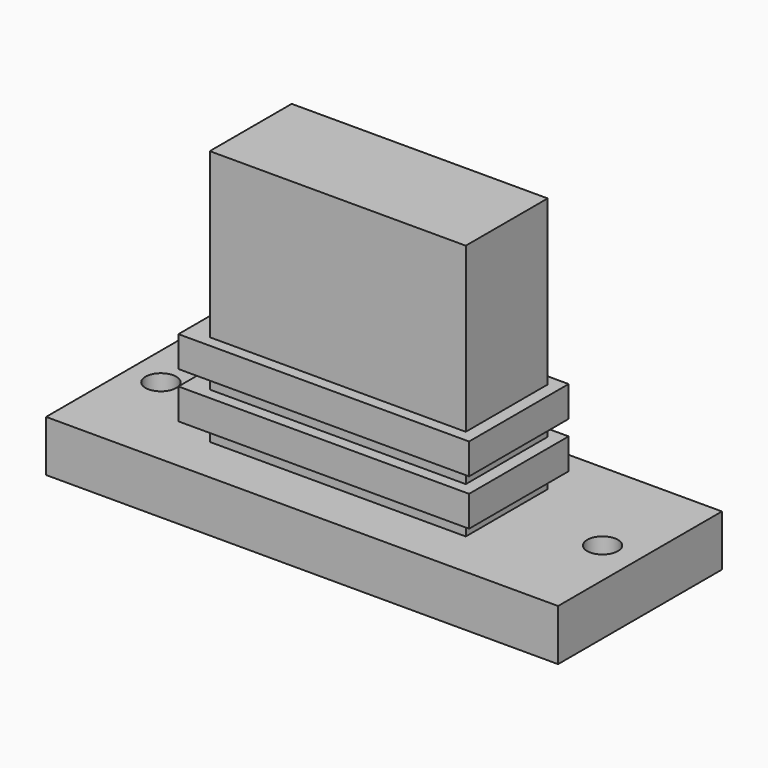
from build123d import *

# Parameters (mm, degrees)
SKETCH_W     = 50
SKETCH_H     = 20
PAD_DEPTH    = 5
SKETCH001_R  = 1.5
HOLE_DEPTH   = 25
SKETCH002_W  = 25
SKETCH002_H  = 10
PAD001_DEPTH = 25
SKETCH004_W  = 28.383249
SKETCH004_H  = 12.151291
PAD002_DEPTH = 3
SKETCH005_W  = 28.383249
SKETCH005_H  = 12.151291
PAD003_DEPTH = 3


with BuildPart() as body:
    # Sketch → Pad (new body)
    with BuildSketch(Plane.XY):
        with Locations((0.229687, 0.070392)):
            Rectangle(SKETCH_W, SKETCH_H)
    extrude(amount=PAD_DEPTH)

    # Sketch001 → Hole (cut)
    with BuildSketch(Plane.XY.offset(5)):
        with Locations((-21.502412, 0)):
            Circle(SKETCH001_R)
        with Locations((21.629828, 0)):
            Circle(SKETCH001_R)
    extrude(amount=-HOLE_DEPTH, mode=Mode.SUBTRACT)

    # Sketch002 → Pad001 (join)
    with BuildSketch(Plane.XY.offset(5)):
        with Locations((0.059641, -0.360975)):
            Rectangle(SKETCH002_W, SKETCH002_H)
    extrude(amount=PAD001_DEPTH)


with BuildPart() as body_1:
    # Body placement: moved
    add(body.part.moved(Location((0, 3, 0))))


with BuildPart() as body001:
    # Sketch004 → Pad002 (new body)
    with BuildSketch(Plane.XY):
        with Locations((1.064474, 1.121764)):
            Rectangle(SKETCH004_W, SKETCH004_H)
    extrude(amount=PAD002_DEPTH)


with BuildPart() as body001_1:
    # Body001 placement: moved
    add(body001.part.moved(Location((-1.5, 1.5, 6.5))))


with BuildPart() as body002:
    # Sketch005 → Pad003 (new body)
    with BuildSketch(Plane.XY):
        with Locations((1.064474, 1.121764)):
            Rectangle(SKETCH005_W, SKETCH005_H)
    extrude(amount=PAD003_DEPTH)


with BuildPart() as body002_1:
    # Body002 placement: moved
    add(body002.part.moved(Location((-1.5, 1.5, 11))))


solid = Compound([body_1.part, body001_1.part, body002_1.part])
